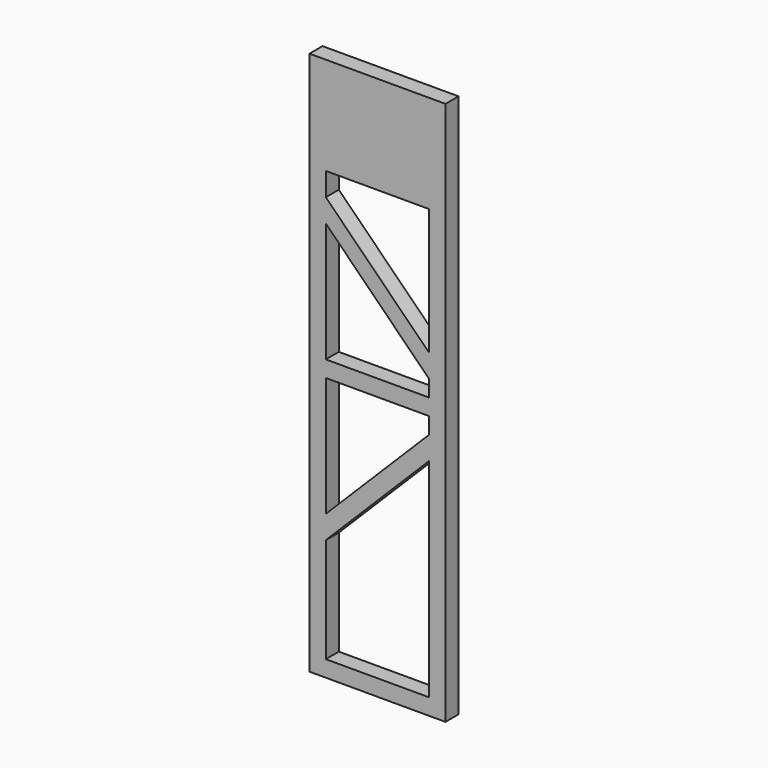
from build123d import *

# Parameters (mm, degrees)
F0_W     = 76
F0_H     = 12
F0_H_2   = 60
F1_DEPTH = 12


with BuildPart() as f1:
    # F0 (on Front) → F1 (new body)
    with BuildSketch(Plane.XZ):
        Polygon((-50, 0), (0, 0), (50, 0), (50, 400), (-50, 400), align=None)
        Polygon((-38, 328), (-38, 388), (38, 388), (38, 328), (38, 234.970563), (38, 218), (38, 206), (38, 194), (38, 182), (38, 165.029437), (38, 12), (-38, 12), (-38, 89.029437), (-38, 106), (-38, 194), (-38, 206), (-38, 294), (-38, 310.970563), align=None, mode=Mode.SUBTRACT)
        with Locations((0, 200)):
            Rectangle(F0_W, F0_H)
        Polygon((38, 182), (-38, 106), (-38, 89.029437), (38, 165.029437), align=None)
        Polygon((38, 234.970563), (-38, 310.970563), (-38, 294), (38, 218), align=None)
        with Locations((0, 358)):
            Rectangle(F0_W, F0_H_2)
    extrude(amount=F1_DEPTH)


solid = f1.part
